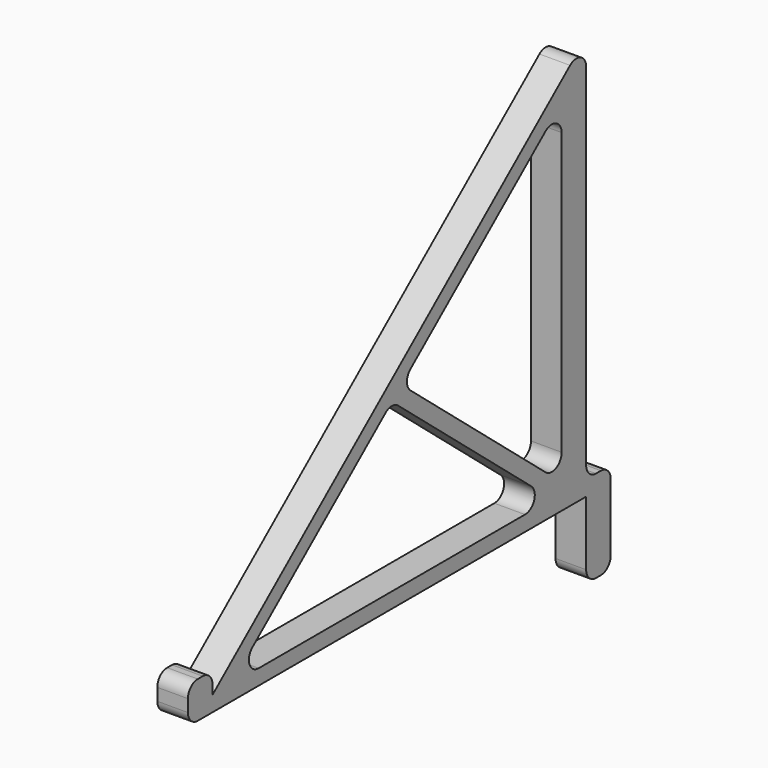
from build123d import *

# Parameters (mm, degrees)
F1_DEPTH = 10
F2_R     = 4


with BuildPart() as f1:
    # F0 (on Right) → F1 (new body)
    with BuildSketch(Plane.YZ):
        Polygon((-162.4, 0), (-152.4, 0), (-152.4, 5), (-152.4, 12), (-162.4, 12), align=None)
        Polygon((0, 5), (0, 0), (0, -25), (10, -25), (10, 5), align=None)
        Polygon((-152.4, 5), (-152.4, 0), (0, 0), (0, 5), (-10, 5), (-13.905125, 5), (-144.58975, 5), align=None)
        Polygon((0, 132), (-152.4, 5), (-144.58975, 5), (-79.247438, 59.451927), (-75.342313, 62.706198), (-10, 117.158125), (-10, 8.254271), (-10, 5), (0, 5), align=None)
        Polygon((-13.905125, 5), (-10, 5), (-10, 8.254271), (-75.342313, 62.706198), (-79.247438, 59.451927), align=None)
    extrude(amount=F1_DEPTH)

    # F2
    f2_edges = [f1.edges().sort_by_distance(p)[0] for p in [
        (5, -162.4, 12),
        (5, -152.4, 12),
        (5, 10, 5),
        (5, 0, -25),
        (5, 10, -25),
        (5, -162.4, 0),
        (5, 0, 132),
        (5, -75.342313, 62.706198),
        (5, -79.247438, 59.451927),
        (5, -10, 117.158125),
        (5, -144.58975, 5),
        (5, -13.905125, 5),
        (5, -10, 8.254271),
        (5, 0, 5),
    ]]
    fillet(f2_edges, radius=F2_R)


solid = f1.part
